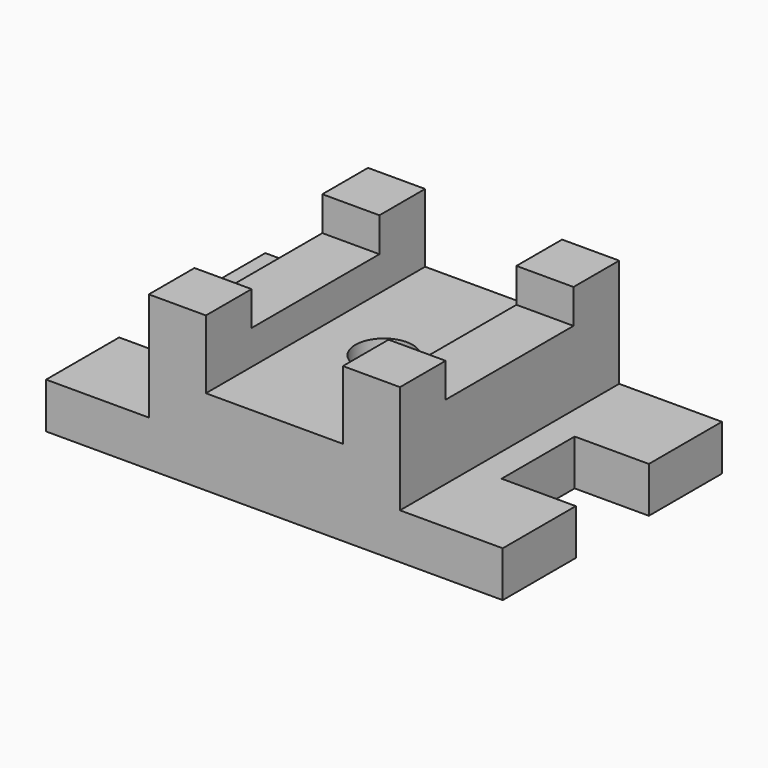
from build123d import *

# Parameters (mm, degrees)
F1_DEPTH = 76.2
F2_W     = 31.75
F2_H     = 31.75
F3_DEPTH = 19.05
F4_R     = 15.875
F5_DEPTH = 25.4
F6_W     = 171.45
F6_H     = 50.8
F6_R     = 15.875
F7_DEPTH = 25.4


with BuildPart() as f1:
    # F0 (on Front) → F1 (new body, symmetric)
    with BuildSketch(Plane.XZ):
        Polygon((38.1, 53.975), (-38.1, 53.975), (-38.1, 73.025), (-69.85, 73.025), (-69.85, 53.975), (-69.85, 31.75), (69.85, 31.75), (69.85, 53.975), (69.85, 73.025), (38.1, 73.025), align=None)
    extrude(amount=F1_DEPTH, both=True)

    # F2 (on face) → F3 (join)
    with BuildSketch(Plane.XY.offset(73.025)):
        with Locations((53.975, 60.325)):
            Rectangle(F2_W, F2_H)
        with Locations((53.975, -60.325)):
            Rectangle(F2_W, F2_H)
        with Locations((-53.975, 60.325)):
            Rectangle(F2_W, F2_H)
        with Locations((-53.975, -60.325)):
            Rectangle(F2_W, F2_H)
    extrude(amount=F3_DEPTH)

    # F4 (on face) → F5 (cut)
    with BuildSketch(Plane.XY.offset(53.975)):
        Circle(F4_R)
    extrude(amount=-F5_DEPTH, mode=Mode.SUBTRACT)

    # F6 (on face) → F7 (join)
    with BuildSketch(Plane(origin=(0, 0, 31.75), x_dir=(1, 0, 0), z_dir=(0, 0, -1))):
        Polygon((127, 76.2), (-127, 76.2), (-127, 25.4), (-85.725, 25.4), (85.725, 25.4), (127, 25.4), align=None)
        Rectangle(F6_W, F6_H)
        Circle(F6_R, mode=Mode.SUBTRACT)
        Polygon((85.725, -25.4), (-85.725, -25.4), (-127, -25.4), (-127, -76.2), (127, -76.2), (127, -25.4), align=None)
    extrude(amount=F7_DEPTH)


solid = f1.part
